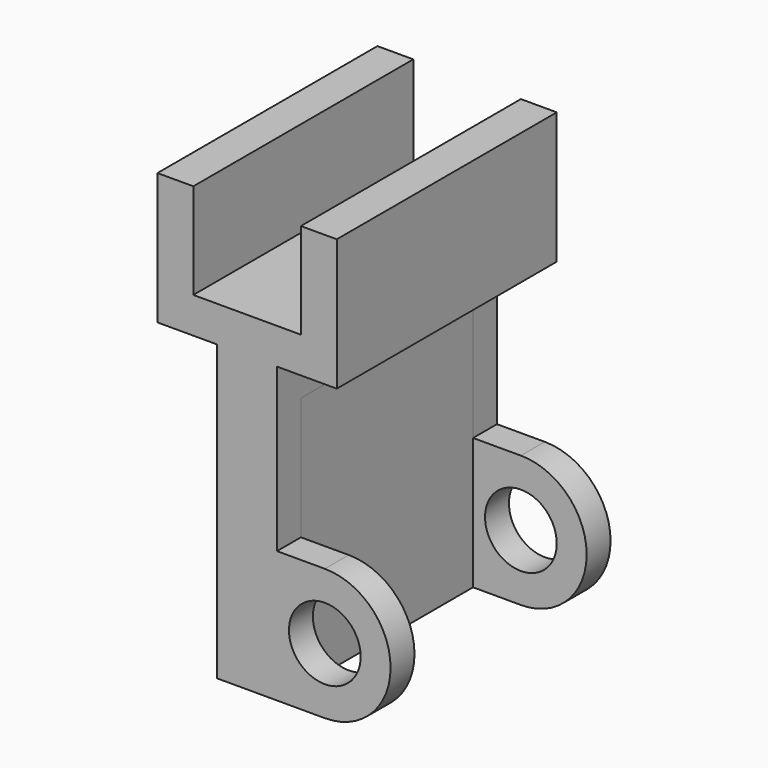
from build123d import *

# Parameters (mm, degrees)
F0_R     = 6
F1_DEPTH = 46
F2_W     = 26.921937
F2_H     = 36
F3_DEPTH = 42.5


with BuildPart() as f1:
    # F0 (on Front) → F1 (new body)
    with BuildSketch(Plane.XZ):
        with BuildLine():
            Line((-9, 44.998586), (-15, 44.998586))
            Line((-15, 44.998586), (-15, 22.998586))
            Line((-15, 22.998586), (-5, 22.998586))
            Line((-5, 22.998586), (-5, -26.177896))
            Line((-5, -26.177896), (5, -26.177896))
            Line((5, -26.177896), (13, -26.177896))
            ThreePointArc((13, -26.177896), (24, -15.177896), (13, -4.177896))
            Line((13, -4.177896), (5, -4.177896))
            Line((5, -4.177896), (5, 22.998586))
            Line((5, 22.998586), (15, 22.998586))
            Line((15, 22.998586), (15, 44.998586))
            Line((15, 44.998586), (9, 44.998586))
            Line((9, 44.998586), (9, 28.998586))
            Line((9, 28.998586), (-9, 28.998586))
            Line((-9, 28.998586), (-9, 44.998586))
        make_face()
        with Locations((13, -15.177896)):
            Circle(F0_R, mode=Mode.SUBTRACT)
    extrude(amount=F1_DEPTH)


with BuildPart() as f3:
    # F2 (on face) → F3 (new body)
    with BuildSketch(Plane(origin=(0, 0, -26.177896), x_dir=(1, 0, 0), z_dir=(0, 0, -1))):
        with Locations((18.460968, 23)):
            Rectangle(F2_W, F2_H)
    extrude(amount=-F3_DEPTH)


with BuildPart() as f1_1:
    add(f1.part)

    # F4: cut F3
    add(f3.part, mode=Mode.SUBTRACT)


solid = f1_1.part
